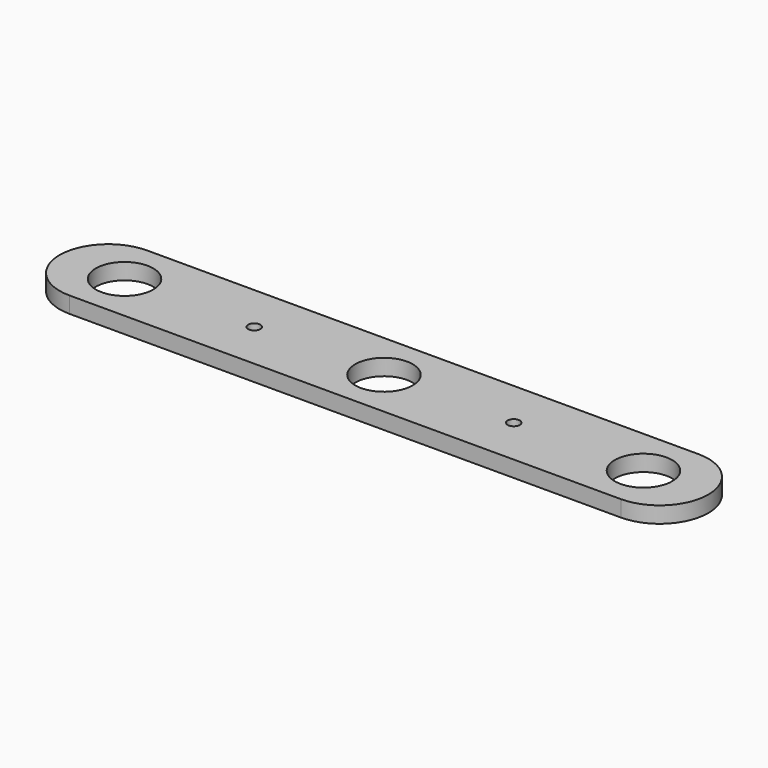
from build123d import *

# Parameters (mm, degrees)
F0_R     = 11.24966
F2_DEPTH = 6.35
F1_R     = 2.38125
F3_DEPTH = 25.4


with BuildPart() as f2:
    # F0 (on Top) → F2 (new body)
    with BuildSketch(Plane.XY):
        with BuildLine():
            Line((158.75, 19.05), (-57.15, 19.05))
            ThreePointArc((-57.15, 19.05), (-76.2, 0), (-57.15, -19.05))
            Line((-57.15, -19.05), (158.75, -19.05))
            ThreePointArc((158.75, -19.05), (177.8, 0), (158.75, 19.05))
        make_face()
        with Locations((-50.8, 0)):
            Circle(F0_R, mode=Mode.SUBTRACT)
        with Locations((50.8, 0)):
            Circle(F0_R, mode=Mode.SUBTRACT)
        with Locations((152.4, 0)):
            Circle(F0_R, mode=Mode.SUBTRACT)
    extrude(amount=F2_DEPTH)

    # F1 (on face) → F3 (cut)
    with BuildSketch(Plane.XY):
        Circle(F1_R)
        with Locations((101.6, 0)):
            Circle(F1_R)
    extrude(amount=F3_DEPTH, mode=Mode.SUBTRACT)


solid = f2.part
